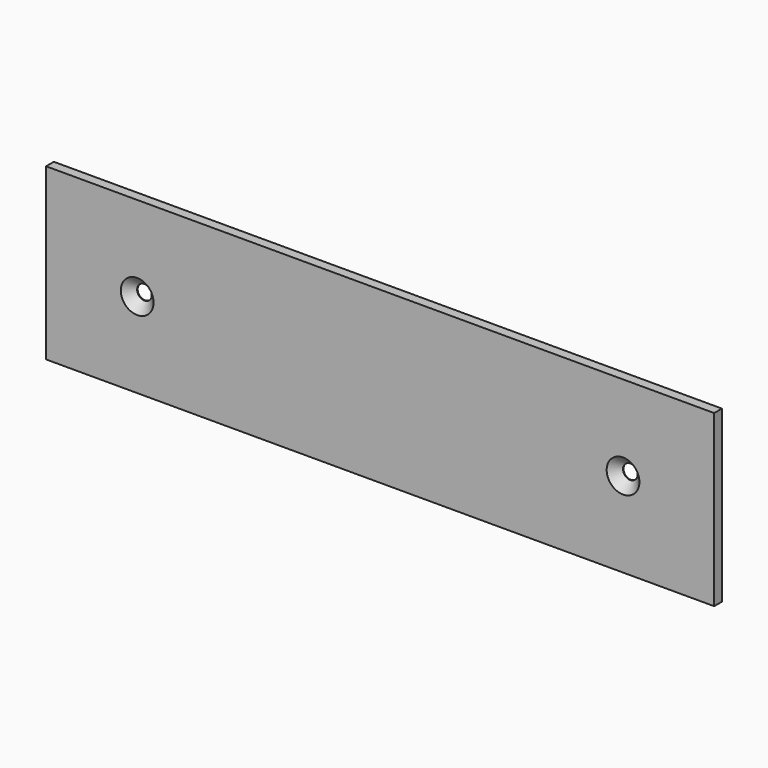
from build123d import *

# Parameters (mm, degrees)
F0_W     = 137.5
F0_H     = 35
F1_DEPTH = 2
F2_R     = 1.5
F3_DEPTH = 25
F4_SIZE  = 1.87


with BuildPart() as f1:
    # F0 (on Front) → F1 (new body)
    with BuildSketch(Plane.XZ):
        Rectangle(F0_W, F0_H)
    extrude(amount=F1_DEPTH)

    # F2 (on face) → F3 (cut)
    with BuildSketch(Plane(origin=(0, 0, 0), x_dir=(-1, 0, 0), z_dir=(0, 1, 0))):
        with Locations((-50, 0)):
            Circle(F2_R)
        with Locations((50, 0)):
            Circle(F2_R)
    extrude(amount=-F3_DEPTH, mode=Mode.SUBTRACT)

    # F4
    f4_edges = [f1.edges().sort_by_distance(p)[0] for p in [
        (51.5, -2, 0),
        (-48.5, -2, 0),
    ]]
    chamfer(f4_edges, length=F4_SIZE)


solid = f1.part
